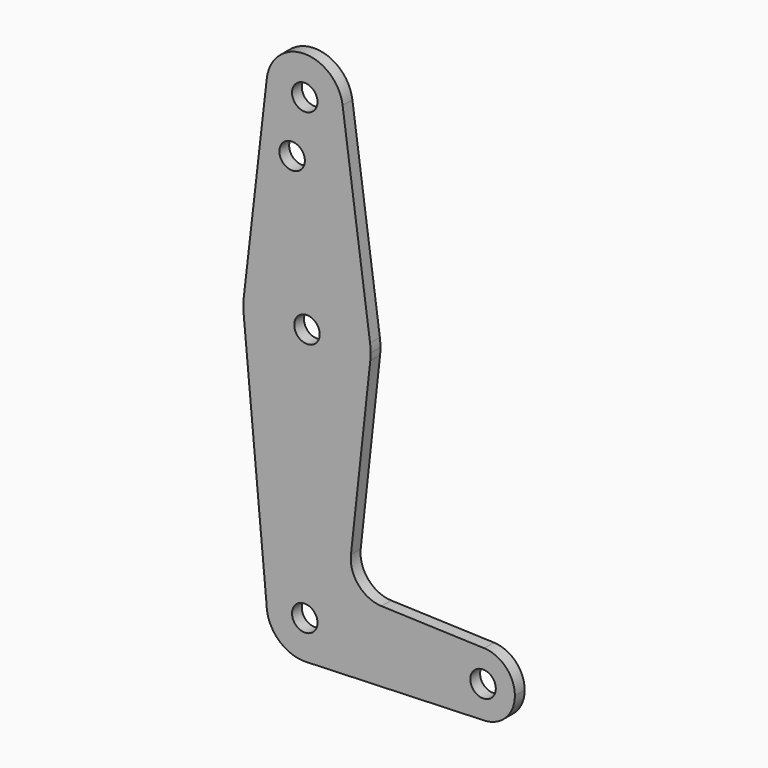
from build123d import *

# Parameters (mm, degrees)
F0_R     = 3.175
F1_DEPTH = 3.048


with BuildPart() as f1:
    # F0 (on Front) → F1 (new body)
    with BuildSketch(Plane.XZ):
        with BuildLine():
            ThreePointArc((0.6773435479, -9.500885786), (6.9705567315, -6.4912990883), (9.525, 0))
            ThreePointArc((9.525, 0), (-0.0695143144, 9.5247463357), (-9.5239853564, -0.1390249264))
            Line((-9.5239853564, -0.1390249264), (-9.3890568994, -1.6035072621))
            ThreePointArc((-9.3890568994, -1.6035072621), (-6.1421583474, -7.2800766367), (0, -9.525))
            Line((0, -9.525), (0.6773435479, -9.500885786))
        make_face()
        Circle(F0_R, mode=Mode.SUBTRACT)
        with BuildLine():
            ThreePointArc((-9.5239853564, -0.1390249264), (-0.0695143144, 9.5247463357), (9.525, 0))
            Line((9.525, 0), (36.5125, 0))
            ThreePointArc((36.5125, 0), (38.9380895153, 5.7116327839), (44.7324052746, 7.9324746146))
            Line((44.7324052746, 7.9324746146), (19.132115595, 8.843874548))
            ThreePointArc((19.132115595, 8.843874548), (13.4022178088, 11.5878433328), (11.5118699162, 17.6531280069))
            Line((11.5118699162, 17.6531280069), (16.3358959881, 61.7745868912))
            ThreePointArc((16.3358959881, 61.7745868912), (0.4197813349, 47.6255753755), (-15.2531073482, 62.0435430843))
            Line((-15.2531073482, 62.0435430843), (-9.5239853564, -0.1390249264))
        make_face()
        with BuildLine():
            Line((36.5125, 0), (9.525, 0))
            ThreePointArc((9.525, 0), (6.9705567315, -6.4912990883), (0.6773435479, -9.500885786))
            Line((0.6773435479, -9.500885786), (44.7324052746, -7.9324746146))
            ThreePointArc((44.7324052746, -7.9324746146), (38.9380895153, -5.7116327839), (36.5125, 0))
        make_face()
        with BuildLine():
            ThreePointArc((44.7324052746, 7.9324746146), (38.9380895153, 5.7116327839), (36.5125, 0))
            ThreePointArc((36.5125, 0), (38.9380895153, -5.7116327839), (44.7324052746, -7.9324746146))
            ThreePointArc((44.7324052746, -7.9324746146), (50.1616327839, -5.5119104847), (52.3875, 0))
            ThreePointArc((52.3875, 0), (50.1616327839, 5.5119104847), (44.7324052746, 7.9324746146))
        make_face()
        with BuildLine():
            ThreePointArc((47.625, 0), (44.45, -3.175), (41.275, 0))
            ThreePointArc((41.275, 0), (44.45, 3.175), (47.625, 0))
        make_face(mode=Mode.SUBTRACT)
        with BuildLine():
            Line((-9.3890568994, -1.6035072621), (-9.5239853564, -0.1390249264))
            ThreePointArc((-9.5239853564, -0.1390249264), (-9.4848283575, -0.8738741494), (-9.3890568994, -1.6035072621))
        make_face()
        with BuildLine():
            ThreePointArc((0, -9.525), (0.3388863295, -9.5189695375), (0.6773435479, -9.500885786))
            Line((0.6773435479, -9.500885786), (0, -9.525))
        make_face()
        with BuildLine():
            ThreePointArc((-15.2162983269, 65.3120897717), (-15.3190535212, 63.6787663505), (-15.2531073482, 62.0435430843))
            ThreePointArc((-15.2531073482, 62.0435430843), (0.4197813349, 47.6255753755), (16.3358959881, 61.7745868912))
            ThreePointArc((16.3358959881, 61.7745868912), (16.406411497, 62.636012926), (16.4299399143, 63.5))
            ThreePointArc((16.4299399143, 63.5), (16.3931193969, 64.5805996846), (16.2828286477, 65.6561866777))
            ThreePointArc((16.2828286477, 65.6561866777), (0.3815315375, 79.3740528705), (-15.2162983269, 65.3120897717))
        make_face()
        with Locations((0.5549399143, 63.5)):
            Circle(F0_R, mode=Mode.SUBTRACT)
        with BuildLine():
            Line((-9.4627429447, 115.387253863), (-15.2162983269, 65.3120897717))
            ThreePointArc((-15.2162983269, 65.3120897717), (0.3815315375, 79.3740528705), (16.2828286477, 65.6561866777))
            Line((16.2828286477, 65.6561866777), (9.4367332401, 115.5937120066))
            ThreePointArc((9.4367332401, 115.5937120066), (9.5029076895, 114.9483598108), (9.525, 114.3))
            ThreePointArc((9.525, 114.3), (-0.5445174248, 104.790577001), (-9.4627429447, 115.387253863))
        make_face()
        with Locations((-3.1542476482, 100.3876179543)):
            Circle(F0_R, mode=Mode.SUBTRACT)
        with BuildLine():
            ThreePointArc((9.4367332401, 115.5937120066), (-0.1040450261, 123.8244317223), (-9.4627429447, 115.387253863))
            ThreePointArc((-9.4627429447, 115.387253863), (-0.5445174248, 104.790577001), (9.525, 114.3))
            ThreePointArc((9.525, 114.3), (9.5029076895, 114.9483598108), (9.4367332401, 115.5937120066))
        make_face()
        with Locations((0, 114.3)):
            Circle(F0_R, mode=Mode.SUBTRACT)
    extrude(amount=F1_DEPTH)


solid = f1.part
